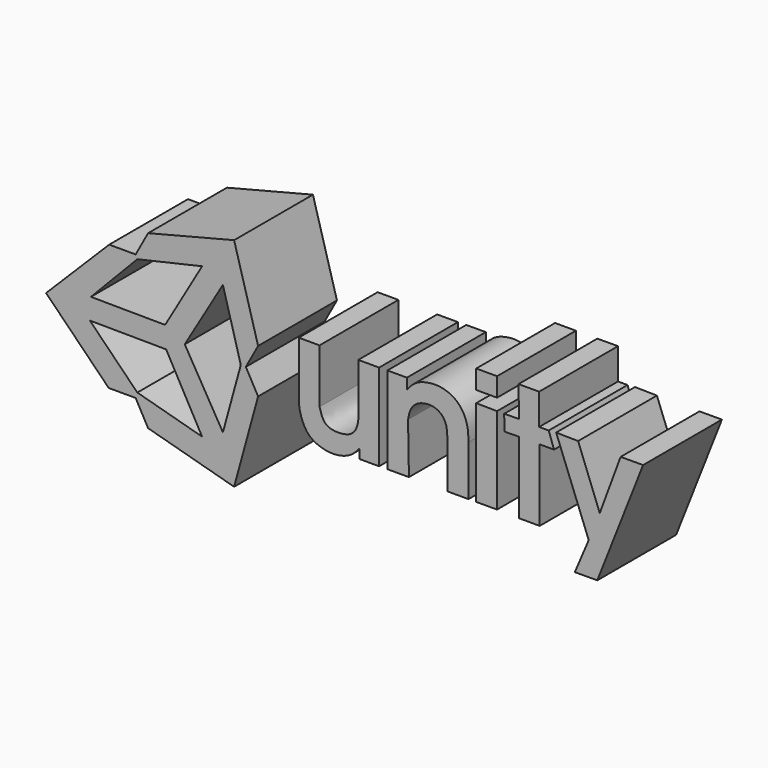
from build123d import *

# Parameters (mm, degrees)
F1_DEPTH = 25.4
F0_W     = 5.3741969168
F0_H     = 4.8786038533


with BuildPart() as f1:
    # F0 (on Front) → F1 (new body)
    with BuildSketch(Plane.XZ):
        Polygon((-61.8175342679, 9.9913803861), (-78.0754983425, -6.2665827572), (-61.931412667, -22.5775633007), (-54.9864582717, -22.5775633007), (-51.7756640911, -28.3953542085), (-29.6092871577, -34.4820693135), (-23.4263148159, -11.9651462883), (-26.5882525722, -6.2885108306), (-23.4263148159, -0.5017970689), (-29.6092871577, 21.4808750898), (-51.7756640911, 15.8675070852), (-54.9864582717, 9.9913803861), align=None)
        Polygon((-54.5538974927, -21.2059187205), (-66.7869821191, -8.8463705033), (-47.1313082578, -8.9928300249), (-37.8613149982, -25.7895723467), align=None, mode=Mode.SUBTRACT)
        Polygon((-66.5137395263, -3.381509101), (-54.5538974927, 9.0510509908), (-37.8613149982, 12.8764538094), (-47.3867684548, -3.524029121), align=None, mode=Mode.SUBTRACT)
        Polygon((-32.4949771166, -23.0550114065), (-42.331725359, -6.2885108306), (-32.4949771166, 10.4172667488), (-27.8910261588, -6.2885108306), align=None, mode=Mode.SUBTRACT)
    extrude(amount=F1_DEPTH)


with BuildPart() as f1b:
    # F0 (on Front) → F1, piece 2 (new body)
    with BuildSketch(Plane.XZ):
        with BuildLine():
            Line((-7.5835298893, 4.7745979391), (-12.939106673, 4.7745979391))
            Line((-12.939106673, 4.7745979391), (-12.939106673, -9.901910089))
            add(Edge.make_bspline(
                [(-12.939106673, -9.901910089), (-12.8195294496, -11.335424735), (-12.1730706321, -13.8144036121), (-10.2817312423, -17.0783601025), (-6.0437932119, -18.8434973108), (-1.891398807, -18.6556372476), (0.9541501655, -17.3179992209), (2.1609917179, -15.9289006997), (2.7519573923, -15.2504704893)],
                knots=[0, 0, 0, 0, 0.1757211311, 0.3415823641, 0.5254318819, 0.703542475, 0.8561343818, 1, 1, 1, 1], degree=3))
            Line((2.7519573923, -15.2504704893), (2.7519573923, -17.6735110581))
            Line((2.7519573923, -17.6735110581), (7.7647762373, -17.6735110581))
            Line((7.7647762373, -17.6735110581), (7.7647762373, 4.7265798785))
            Line((7.7647762373, 4.7265798785), (2.4030324872, 4.7265798785))
            Line((2.4030324872, 4.7265798785), (2.4030324872, -8.6782282079))
            add(Edge.make_bspline(
                [(-7.5835298893, -9.1644796788), (-7.2848614749, -10.2725499275), (-6.6139134778, -12.4818270071), (-4.0439647098, -13.6263171971), (0.2146485756, -13.3446000384), (2.0819233672, -11.2007439975), (2.402876918, -9.1158028323), (2.4030324872, -8.6782282079)],
                knots=[0, 0, 0, 0, 0.2107151722, 0.3976154728, 0.6303740039, 0.8235724182, 1, 1, 1, 1], degree=3))
            Line((-7.5835298893, -9.1644796788), (-7.5835298893, 4.7745979391))
        make_face()
    extrude(amount=F1_DEPTH)


with BuildPart() as f1c:
    # F0 (on Front) → F1, piece 3 (new body)
    with BuildSketch(Plane.XZ):
        with BuildLine():
            add(Edge.make_bspline(
                [(14.9370869622, 2.0253402181), (15.534431752, 2.7609794713), (16.7580901476, 4.2679335182), (19.7599927713, 5.4576080514), (23.7961951925, 5.7978179931), (28.4112301272, 3.8294664448), (30.7187893168, -0.5854952277), (30.7756019621, -3.4031307986), (30.8031048626, -4.7671431676)],
                knots=[0, 0, 0, 0, 0.1419986402, 0.2908836425, 0.4598336653, 0.6445012121, 0.827903669, 1, 1, 1, 1], degree=3))
            Line((14.9370869622, 2.0253402181), (14.9370869622, 4.7786119394))
            Line((14.9370869622, 4.7786119394), (9.9125150591, 4.7786119394))
            Line((9.9125150591, 4.7786119394), (9.9125150591, -17.6387447864))
            Line((9.9125150591, -17.6387447864), (15.4559724033, -17.6387447864))
            Line((15.4559724033, -17.6387447864), (15.2249624953, -4.6305218711))
            add(Edge.make_bspline(
                [(15.2249624953, -4.6305218711), (15.3516237058, -3.926779829), (15.6113315095, -2.4838179354), (16.957148298, -0.3426604733), (19.4850934176, 0.5156936091), (21.7872988929, 0.611104947), (24.1610164356, -0.6280850599), (25.2478034031, -2.8977320199), (25.3079409714, -4.3409012448), (25.3370888531, -5.040386226)],
                knots=[0, 0, 0, 0, 0.1373880895, 0.2817023367, 0.4307768151, 0.571573078, 0.7194363083, 0.8640145, 1, 1, 1, 1], degree=3))
            Line((25.3370888531, -5.040386226), (25.3370888531, -17.6387447864))
            Line((25.3370888531, -17.6387447864), (30.8031048626, -17.6387447864))
            Line((30.8031048626, -17.6387447864), (30.8031048626, -4.7671431676))
        make_face()
    extrude(amount=F1_DEPTH)


with BuildPart() as f1d:
    # F0 (on Front) → F1, piece 4 (new body)
    with BuildSketch(Plane.XZ):
        Polygon((38.1637066603, 4.7257477418), (32.7974595129, 4.7963648103), (32.7974595129, -17.6140572876), (38.1637066603, -17.6140572876), align=None)
    extrude(amount=F1_DEPTH)


with BuildPart() as f1e:
    # F0 (on Front) → F1, piece 5 (new body)
    with BuildSketch(Plane.XZ):
        with Locations((35.4845579714, 10.2194794454)):
            Rectangle(F0_W, F0_H)
    extrude(amount=F1_DEPTH)


with BuildPart() as f1f:
    # F0 (on Front) → F1, piece 6 (new body)
    with BuildSketch(Plane.XZ):
        Polygon((49.0248128772, 12.6798572019), (43.6954498291, 12.658781372), (43.8350765974, 4.7963648103), (40.0072335546, 4.7283870646), (40.0787388816, 0.7019050787), (43.8309807873, 0.7685402419), (43.8309807873, -17.738442868), (49.1614602506, -17.738442868), (49.1614602506, 0.7685402419), (52.8510250151, 0.7685402419), (51.4845177531, 4.6674897894), (49.0248128772, 4.6674897894), align=None)
    extrude(amount=F1_DEPTH)


with BuildPart() as f1g:
    # F0 (on Front) → F1, piece 7 (new body)
    with BuildSketch(Plane.XZ):
        Polygon((59.0563341975, 4.7340947203), (53.4049682319, 4.8287753016), (61.7959983647, -16.8625749648), (58.2133606076, -25.2905450761), (64.0087189905, -25.2676263922), (75.8104547858, 4.7340947203), (70.0159296339, 4.7111793315), (64.6410360932, -9.8041519523), align=None)
    extrude(amount=F1_DEPTH)


solid = Compound([f1.part, f1b.part, f1c.part, f1d.part, f1e.part, f1f.part, f1g.part])
